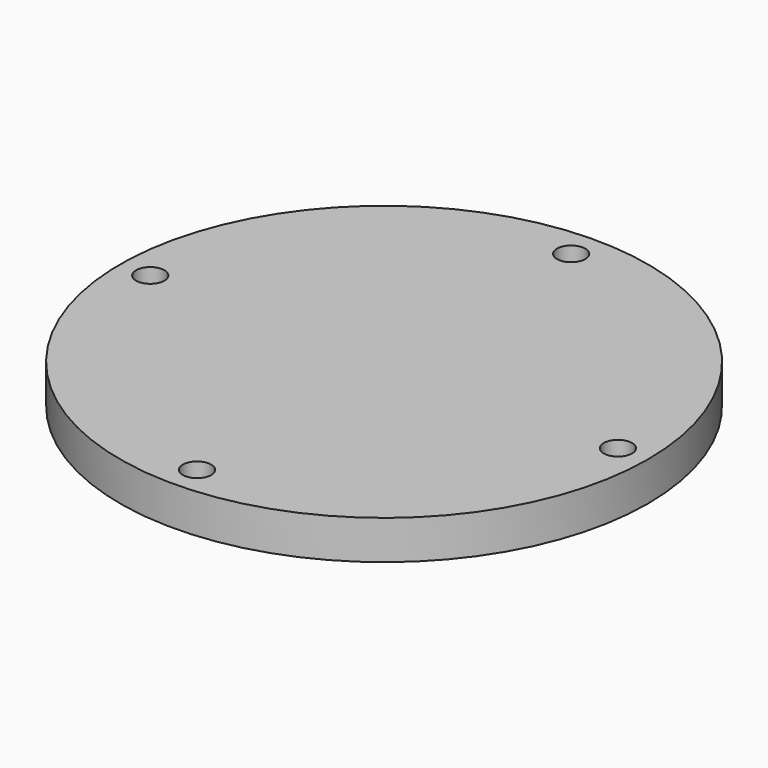
from build123d import *

# Parameters (mm, degrees)
F0_R     = 74.5
F1_DEPTH = 11
F4_D     = 8


with BuildPart() as f1:
    # F0 (on Top) → F1 (new body)
    with BuildSketch(Plane.XY):
        Circle(F0_R)
    extrude(amount=F1_DEPTH)

    # F4 (through all)
    with Locations(Plane.XY.offset(11)):
        with Locations((0, 66), (-66, 0), (66, 0), (0, -66)):
            Hole(F4_D / 2)


solid = f1.part
